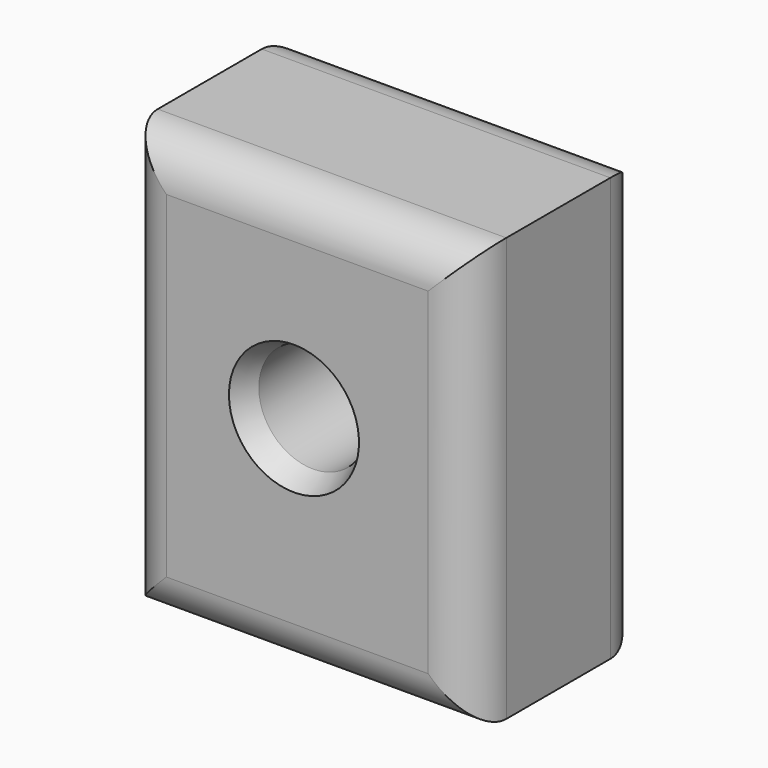
from build123d import *

# Parameters (mm, degrees)
F0_W           = 40.847726
F0_H           = 49.624716
F1_DEPTH       = 25.4
F2_R           = 5.08
F4_D           = 12.7
F4_CSINK_D     = 15.24
F4_CSINK_ANGLE = 49


with BuildPart() as f1:
    # F0 (on Front) → F1 (new body)
    with BuildSketch(Plane.XZ):
        with Locations((-42.006526, 12.353429)):
            Rectangle(F0_W, F0_H)
    extrude(amount=F1_DEPTH)

    # F2
    f2_edges = [f1.edges().sort_by_distance(p)[0] for p in [
        (-42.006526, -25.4, 37.165787),
        (-62.430389, -25.4, 12.353429),
        (-42.006526, -25.4, -12.458929),
        (-21.582663, -25.4, 12.353429),
        (-42.006526, 0, 37.165787),
        (-62.430389, 0, 12.353429),
        (-42.006526, 0, -12.458929),
        (-21.582663, 0, 12.353429),
    ]]
    fillet(f2_edges, radius=F2_R)

    # F4 (through all)
    with Locations(Plane.XZ.offset(25.4)):
        with Locations((-42.396232, 13.828625)):
            CounterSinkHole(F4_D / 2, F4_CSINK_D / 2, counter_sink_angle=F4_CSINK_ANGLE)


solid = f1.part
